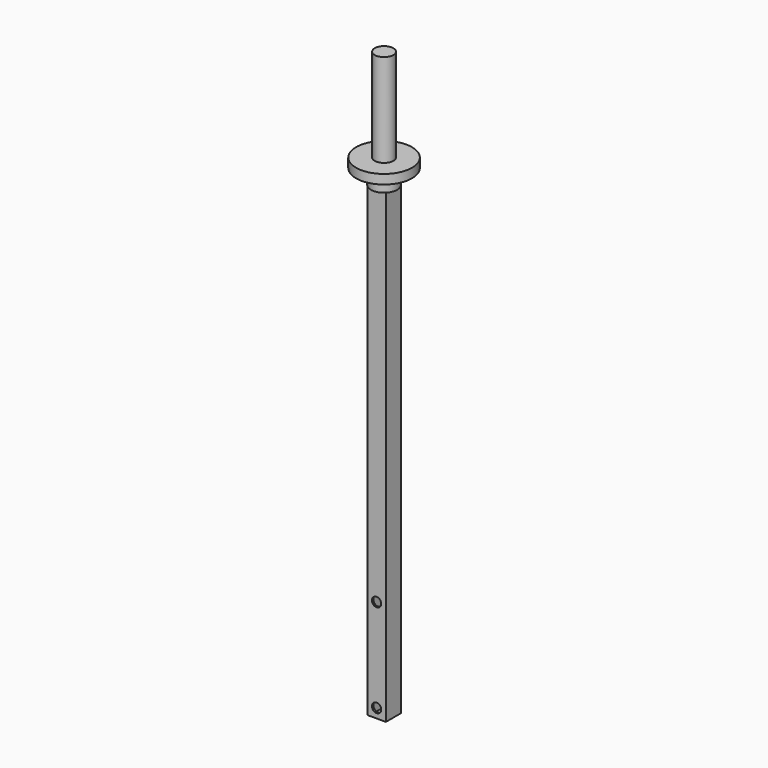
from build123d import *

# Parameters (mm, degrees)
SKETCH_W     = 10
SKETCH_H     = 10
SKETCH_W_2   = 8
SKETCH_H_2   = 8
PAD_DEPTH    = 250
SKETCH001_R  = 2.5
POCKET_DEPTH = 10.001
SKETCH002_R  = 1
PAD001_DEPTH = 2
SKETCH003_R  = 7.071068
PAD002_DEPTH = 8
SKETCH004_R  = 15
PAD003_DEPTH = 5
SKETCH005_R  = 5
PAD004_DEPTH = 50


with BuildPart() as part:
    # Sketch → Pad (new body)
    with BuildSketch(Plane.XY):
        Rectangle(SKETCH_W, SKETCH_H)
        Rectangle(SKETCH_W_2, SKETCH_H_2, mode=Mode.SUBTRACT)
    extrude(amount=PAD_DEPTH)

    # Sketch001 (on Face3 of Pad) → Pocket (cut, through all)
    with BuildSketch(Plane.XZ.offset(5)):
        with Locations((0, 5)):
            Circle(SKETCH001_R)
        with Locations((0, 55)):
            Circle(SKETCH001_R)
    extrude(amount=-POCKET_DEPTH, mode=Mode.SUBTRACT)

    # Sketch002 (on Face2 of Pocket) → Pad001 (join)
    with BuildSketch(Plane(origin=(-5, 0, 0), x_dir=(0, -1, 0), z_dir=(-1, 0, 0))):
        with Locations((0, 86)):
            Circle(SKETCH002_R)
    extrude(amount=PAD001_DEPTH)

    # Sketch003 (on Face4 of Pad001) → Pad002 (join)
    with BuildSketch(Plane.XY.offset(250)):
        Circle(SKETCH003_R)
    extrude(amount=PAD002_DEPTH)

    # Sketch004 (on Face6 of Pad002) → Pad003 (join)
    with BuildSketch(Plane.XY.offset(258)):
        Circle(SKETCH004_R)
    extrude(amount=PAD003_DEPTH)

    # Sketch005 (on Face3 of Pad003) → Pad004 (join)
    with BuildSketch(Plane.XY.offset(263)):
        Circle(SKETCH005_R)
    extrude(amount=PAD004_DEPTH)


solid = part.part
